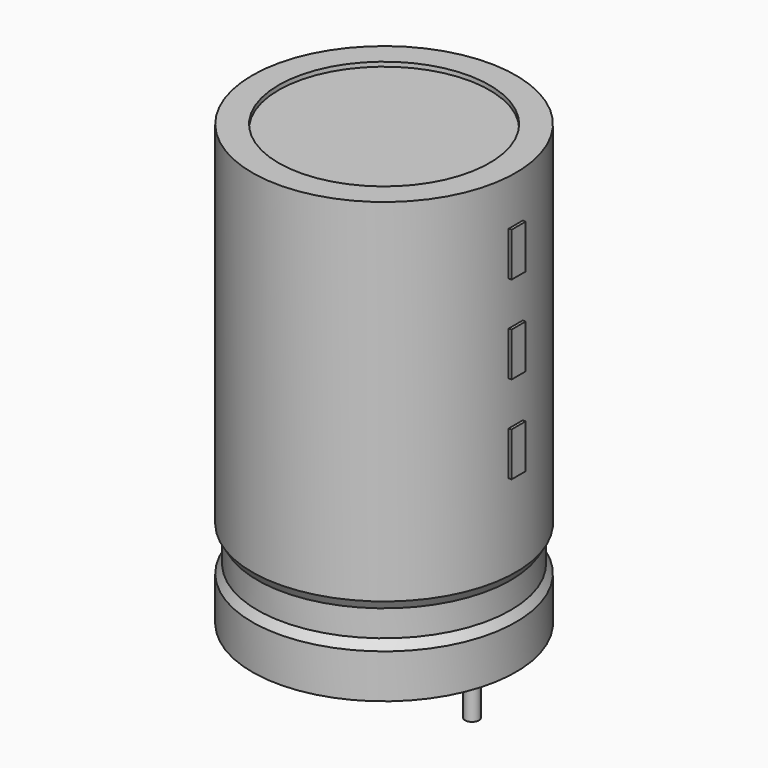
from build123d import *

# Parameters (mm, degrees)
SKETCH002_W  = 6.9
SKETCH002_H  = 24.5
SKETCH003_R  = 0.4
PAD_DEPTH    = 5.5
SKETCH004_W  = 1
SKETCH004_H  = 2.5
PAD001_DEPTH = 7.65


with BuildPart() as revolution:
    # Sketch → Revolution (revolve)
    with BuildSketch(Plane.XZ):
        Polygon((-2.5, 0.1), (-2.5, 2.6), (-2.2, 3.1), (-2.2, 4.6), (-2.5, 5.1), (-2.5, 25.1), (-1, 25.1), (-1, 0.1), align=None)
    revolve(axis=Axis((5, 0, 7.548619), (0, 0, -1)))


with BuildPart() as revolution001:
    # Sketch002 → Revolution001 (revolve)
    with BuildSketch(Plane.XZ):
        with Locations((1.55, 12.6)):
            Rectangle(SKETCH002_W, SKETCH002_H)
    revolve(axis=Axis((5, 0, 4.680116), (0, 0, -1)))


with BuildPart() as pad:
    # Sketch003 → Pad (new body)
    with BuildSketch(Plane.XY.offset(2.5)):
        Circle(SKETCH003_R)
        with Locations((10, 0)):
            Circle(SKETCH003_R)
    extrude(amount=-PAD_DEPTH)


with BuildPart() as pad001:
    # Sketch004 → Pad001 (new body)
    with BuildSketch(Plane.YZ.offset(5)):
        with Locations((0, 11.25)):
            Rectangle(SKETCH004_W, SKETCH004_H)
        with Locations((0, 16.25)):
            Rectangle(SKETCH004_W, SKETCH004_H)
        with Locations((0, 21.25)):
            Rectangle(SKETCH004_W, SKETCH004_H)
    extrude(amount=PAD001_DEPTH)


solid = Compound([revolution.part, revolution001.part, pad.part, pad001.part])
